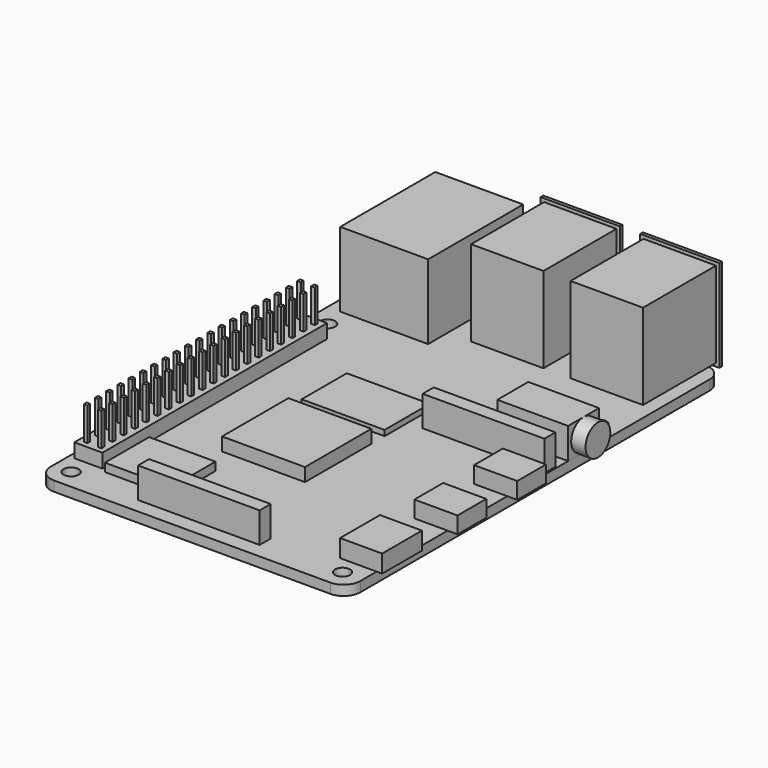
from build123d import *

# Parameters (mm, degrees)
CUBE_W         = 15
CUBE_H         = 15
CUBE_DEPTH     = 2.4
CUBE001_W      = 15
CUBE001_H      = 10.2
CUBE001_DEPTH  = 1
CUBE002_W      = 12
CUBE002_H      = 10
CUBE002_DEPTH  = 1.5
CUBE003_W      = 22
CUBE003_H      = 2.5
CUBE003_DEPTH  = 5.5
CUBE004_W      = 22
CUBE004_H      = 2.5
CUBE004_DEPTH  = 5.5
CUBE048_W      = 0.65
CUBE048_H      = 0.65
CUBE048_DEPTH  = 11.54
CUBE047_W      = 2.54
CUBE047_H      = 2.54
CUBE047_DEPTH  = 2.54
CUBE050_W      = 0.65
CUBE050_H      = 0.65
CUBE050_DEPTH  = 11.54
CUBE049_W      = 2.54
CUBE049_H      = 2.54
CUBE049_DEPTH  = 2.54
CUBE052_W      = 0.65
CUBE052_H      = 0.65
CUBE052_DEPTH  = 11.54
CUBE051_W      = 2.54
CUBE051_H      = 2.54
CUBE051_DEPTH  = 2.54
CUBE054_W      = 0.65
CUBE054_H      = 0.65
CUBE054_DEPTH  = 11.54
CUBE053_W      = 2.54
CUBE053_H      = 2.54
CUBE053_DEPTH  = 2.54
CUBE056_W      = 0.65
CUBE056_H      = 0.65
CUBE056_DEPTH  = 11.54
CUBE055_W      = 2.54
CUBE055_H      = 2.54
CUBE055_DEPTH  = 2.54
CUBE058_W      = 0.65
CUBE058_H      = 0.65
CUBE058_DEPTH  = 11.54
CUBE057_W      = 2.54
CUBE057_H      = 2.54
CUBE057_DEPTH  = 2.54
CUBE060_W      = 0.65
CUBE060_H      = 0.65
CUBE060_DEPTH  = 11.54
CUBE059_W      = 2.54
CUBE059_H      = 2.54
CUBE059_DEPTH  = 2.54
CUBE062_W      = 0.65
CUBE062_H      = 0.65
CUBE062_DEPTH  = 11.54
CUBE061_W      = 2.54
CUBE061_H      = 2.54
CUBE061_DEPTH  = 2.54
CUBE064_W      = 0.65
CUBE064_H      = 0.65
CUBE064_DEPTH  = 11.54
CUBE063_W      = 2.54
CUBE063_H      = 2.54
CUBE063_DEPTH  = 2.54
CUBE066_W      = 0.65
CUBE066_H      = 0.65
CUBE066_DEPTH  = 11.54
CUBE065_W      = 2.54
CUBE065_H      = 2.54
CUBE065_DEPTH  = 2.54
CUBE068_W      = 0.65
CUBE068_H      = 0.65
CUBE068_DEPTH  = 11.54
CUBE067_W      = 2.54
CUBE067_H      = 2.54
CUBE067_DEPTH  = 2.54
CUBE070_W      = 0.65
CUBE070_H      = 0.65
CUBE070_DEPTH  = 11.54
CUBE069_W      = 2.54
CUBE069_H      = 2.54
CUBE069_DEPTH  = 2.54
CUBE072_W      = 0.65
CUBE072_H      = 0.65
CUBE072_DEPTH  = 11.54
CUBE071_W      = 2.54
CUBE071_H      = 2.54
CUBE071_DEPTH  = 2.54
CUBE074_W      = 0.65
CUBE074_H      = 0.65
CUBE074_DEPTH  = 11.54
CUBE073_W      = 2.54
CUBE073_H      = 2.54
CUBE073_DEPTH  = 2.54
CUBE076_W      = 0.65
CUBE076_H      = 0.65
CUBE076_DEPTH  = 11.54
CUBE075_W      = 2.54
CUBE075_H      = 2.54
CUBE075_DEPTH  = 2.54
CUBE078_W      = 0.65
CUBE078_H      = 0.65
CUBE078_DEPTH  = 11.54
CUBE077_W      = 2.54
CUBE077_H      = 2.54
CUBE077_DEPTH  = 2.54
CUBE080_W      = 0.65
CUBE080_H      = 0.65
CUBE080_DEPTH  = 11.54
CUBE079_W      = 2.54
CUBE079_H      = 2.54
CUBE079_DEPTH  = 2.54
CUBE082_W      = 0.65
CUBE082_H      = 0.65
CUBE082_DEPTH  = 11.54
CUBE081_W      = 2.54
CUBE081_H      = 2.54
CUBE081_DEPTH  = 2.54
CUBE084_W      = 0.65
CUBE084_H      = 0.65
CUBE084_DEPTH  = 11.54
CUBE083_W      = 2.54
CUBE083_H      = 2.54
CUBE083_DEPTH  = 2.54
CUBE046_W      = 0.65
CUBE046_H      = 0.65
CUBE046_DEPTH  = 11.54
CUBE045_W      = 2.54
CUBE045_H      = 2.54
CUBE045_DEPTH  = 2.54
CUBE008_W      = 0.65
CUBE008_H      = 0.65
CUBE008_DEPTH  = 11.54
CUBE007_W      = 2.54
CUBE007_H      = 2.54
CUBE007_DEPTH  = 2.54
CUBE010_W      = 0.65
CUBE010_H      = 0.65
CUBE010_DEPTH  = 11.54
CUBE009_W      = 2.54
CUBE009_H      = 2.54
CUBE009_DEPTH  = 2.54
CUBE012_W      = 0.65
CUBE012_H      = 0.65
CUBE012_DEPTH  = 11.54
CUBE011_W      = 2.54
CUBE011_H      = 2.54
CUBE011_DEPTH  = 2.54
CUBE014_W      = 0.65
CUBE014_H      = 0.65
CUBE014_DEPTH  = 11.54
CUBE013_W      = 2.54
CUBE013_H      = 2.54
CUBE013_DEPTH  = 2.54
CUBE016_W      = 0.65
CUBE016_H      = 0.65
CUBE016_DEPTH  = 11.54
CUBE015_W      = 2.54
CUBE015_H      = 2.54
CUBE015_DEPTH  = 2.54
CUBE018_W      = 0.65
CUBE018_H      = 0.65
CUBE018_DEPTH  = 11.54
CUBE017_W      = 2.54
CUBE017_H      = 2.54
CUBE017_DEPTH  = 2.54
CUBE020_W      = 0.65
CUBE020_H      = 0.65
CUBE020_DEPTH  = 11.54
CUBE019_W      = 2.54
CUBE019_H      = 2.54
CUBE019_DEPTH  = 2.54
CUBE022_W      = 0.65
CUBE022_H      = 0.65
CUBE022_DEPTH  = 11.54
CUBE021_W      = 2.54
CUBE021_H      = 2.54
CUBE021_DEPTH  = 2.54
CUBE024_W      = 0.65
CUBE024_H      = 0.65
CUBE024_DEPTH  = 11.54
CUBE023_W      = 2.54
CUBE023_H      = 2.54
CUBE023_DEPTH  = 2.54
CUBE026_W      = 0.65
CUBE026_H      = 0.65
CUBE026_DEPTH  = 11.54
CUBE025_W      = 2.54
CUBE025_H      = 2.54
CUBE025_DEPTH  = 2.54
CUBE028_W      = 0.65
CUBE028_H      = 0.65
CUBE028_DEPTH  = 11.54
CUBE027_W      = 2.54
CUBE027_H      = 2.54
CUBE027_DEPTH  = 2.54
CUBE030_W      = 0.65
CUBE030_H      = 0.65
CUBE030_DEPTH  = 11.54
CUBE029_W      = 2.54
CUBE029_H      = 2.54
CUBE029_DEPTH  = 2.54
CUBE032_W      = 0.65
CUBE032_H      = 0.65
CUBE032_DEPTH  = 11.54
CUBE031_W      = 2.54
CUBE031_H      = 2.54
CUBE031_DEPTH  = 2.54
CUBE034_W      = 0.65
CUBE034_H      = 0.65
CUBE034_DEPTH  = 11.54
CUBE033_W      = 2.54
CUBE033_H      = 2.54
CUBE033_DEPTH  = 2.54
CUBE036_W      = 0.65
CUBE036_H      = 0.65
CUBE036_DEPTH  = 11.54
CUBE035_W      = 2.54
CUBE035_H      = 2.54
CUBE035_DEPTH  = 2.54
CUBE038_W      = 0.65
CUBE038_H      = 0.65
CUBE038_DEPTH  = 11.54
CUBE037_W      = 2.54
CUBE037_H      = 2.54
CUBE037_DEPTH  = 2.54
CUBE040_W      = 0.65
CUBE040_H      = 0.65
CUBE040_DEPTH  = 11.54
CUBE039_W      = 2.54
CUBE039_H      = 2.54
CUBE039_DEPTH  = 2.54
CUBE042_W      = 0.65
CUBE042_H      = 0.65
CUBE042_DEPTH  = 11.54
CUBE041_W      = 2.54
CUBE041_H      = 2.54
CUBE041_DEPTH  = 2.54
CUBE044_W      = 0.65
CUBE044_H      = 0.65
CUBE044_DEPTH  = 11.54
CUBE043_W      = 2.54
CUBE043_H      = 2.54
CUBE043_DEPTH  = 2.54
CUBE006_W      = 0.65
CUBE006_H      = 0.65
CUBE006_DEPTH  = 11.54
CUBE005_W      = 2.54
CUBE005_H      = 2.54
CUBE005_DEPTH  = 2.54
CUBE085_W      = 15.9
CUBE085_H      = 21.5
CUBE085_DEPTH  = 13.5
CUBE087_W      = 14.3
CUBE087_H      = 0.6
CUBE087_DEPTH  = 16.7
CUBE086_W      = 13.1
CUBE086_H      = 17.1
CUBE086_DEPTH  = 15.5
CUBE089_W      = 14.3
CUBE089_H      = 0.6
CUBE089_DEPTH  = 16.7
CUBE088_W      = 13.1
CUBE088_H      = 17.1
CUBE088_DEPTH  = 15.5
CUBE090_W      = 7.8
CUBE090_H      = 6.5
CUBE090_DEPTH  = 3
CUBE091_W      = 7.8
CUBE091_H      = 6.5
CUBE091_DEPTH  = 3
CYLINDER_R     = 2.8
CYLINDER_DEPTH = 2.6
CUBE092_W      = 12.8
CUBE092_H      = 7
CUBE092_DEPTH  = 5.6
CUBE093_W      = 7.6
CUBE093_H      = 9
CUBE093_DEPTH  = 3.2
SKETCH_R       = 1.375
PAD_DEPTH      = 1.8


with BuildPart() as cube:
    # cube → cube (new body)
    with BuildSketch(Plane(origin=(16, 21.75, 0), x_dir=(1, 0, 0), z_dir=(0, 0, 1))):
        with Locations((7.5, 7.5)):
            Rectangle(CUBE_W, CUBE_H)
    extrude(amount=CUBE_DEPTH)


with BuildPart() as cube001:
    # cube001 → cube001 (new body)
    with BuildSketch(Plane(origin=(16, 39.75, 0), x_dir=(1, 0, 0), z_dir=(0, 0, 1))):
        with Locations((7.5, 5.1)):
            Rectangle(CUBE001_W, CUBE001_H)
    extrude(amount=CUBE001_DEPTH)


with BuildPart() as cube002:
    # cube002 → cube002 (new body)
    with BuildSketch(Plane(origin=(7, 6.5, 0), x_dir=(1, 0, 0), z_dir=(0, 0, 1))):
        with Locations((6, 5)):
            Rectangle(CUBE002_W, CUBE002_H)
    extrude(amount=CUBE002_DEPTH)


with BuildPart() as cube003:
    # cube003 → cube003 (new body)
    with BuildSketch(Plane(origin=(16, 2.75, 0), x_dir=(1, 0, 0), z_dir=(0, 0, 1))):
        with Locations((11, 1.25)):
            Rectangle(CUBE003_W, CUBE003_H)
    extrude(amount=CUBE003_DEPTH)


with BuildPart() as cube004:
    # cube004 → cube004 (new body)
    with BuildSketch(Plane(origin=(33.7, 45, 0), x_dir=(1, 0, 0), z_dir=(0, 0, 1))):
        with Locations((11, 1.25)):
            Rectangle(CUBE004_W, CUBE004_H)
    extrude(amount=CUBE004_DEPTH)


with BuildPart() as cube048:
    # cube048 → cube048 (new body)
    with BuildSketch(Plane(origin=(0.945, 0.945, -3), x_dir=(1, 0, 0), z_dir=(0, 0, 1))):
        with Locations((0.325, 0.325)):
            Rectangle(CUBE048_W, CUBE048_H)
    extrude(amount=CUBE048_DEPTH)


with BuildPart() as union021:
    # cube047 → cube047 (new body)
    with BuildSketch(Plane.XY):
        with Locations((1.27, 1.27)):
            Rectangle(CUBE047_W, CUBE047_H)
    extrude(amount=CUBE047_DEPTH)

    # union021: union cube048
    add(cube048.part)


with BuildPart() as union021_1:
    # union021 placement: moved
    add(union021.part.moved(Location((2.54, 2.54, 0))))


with BuildPart() as cube050:
    # cube050 → cube050 (new body)
    with BuildSketch(Plane(origin=(0.945, 0.945, -3), x_dir=(1, 0, 0), z_dir=(0, 0, 1))):
        with Locations((0.325, 0.325)):
            Rectangle(CUBE050_W, CUBE050_H)
    extrude(amount=CUBE050_DEPTH)


with BuildPart() as union022:
    # cube049 → cube049 (new body)
    with BuildSketch(Plane.XY):
        with Locations((1.27, 1.27)):
            Rectangle(CUBE049_W, CUBE049_H)
    extrude(amount=CUBE049_DEPTH)

    # union022: union cube050
    add(cube050.part)


with BuildPart() as union022_1:
    # union022 placement: moved
    add(union022.part.moved(Location((2.54, 5.08, 0))))


with BuildPart() as cube052:
    # cube052 → cube052 (new body)
    with BuildSketch(Plane(origin=(0.945, 0.945, -3), x_dir=(1, 0, 0), z_dir=(0, 0, 1))):
        with Locations((0.325, 0.325)):
            Rectangle(CUBE052_W, CUBE052_H)
    extrude(amount=CUBE052_DEPTH)


with BuildPart() as union023:
    # cube051 → cube051 (new body)
    with BuildSketch(Plane.XY):
        with Locations((1.27, 1.27)):
            Rectangle(CUBE051_W, CUBE051_H)
    extrude(amount=CUBE051_DEPTH)

    # union023: union cube052
    add(cube052.part)


with BuildPart() as union023_1:
    # union023 placement: moved
    add(union023.part.moved(Location((2.54, 7.62, 0))))


with BuildPart() as cube054:
    # cube054 → cube054 (new body)
    with BuildSketch(Plane(origin=(0.945, 0.945, -3), x_dir=(1, 0, 0), z_dir=(0, 0, 1))):
        with Locations((0.325, 0.325)):
            Rectangle(CUBE054_W, CUBE054_H)
    extrude(amount=CUBE054_DEPTH)


with BuildPart() as union024:
    # cube053 → cube053 (new body)
    with BuildSketch(Plane.XY):
        with Locations((1.27, 1.27)):
            Rectangle(CUBE053_W, CUBE053_H)
    extrude(amount=CUBE053_DEPTH)

    # union024: union cube054
    add(cube054.part)


with BuildPart() as union024_1:
    # union024 placement: moved
    add(union024.part.moved(Location((2.54, 10.16, 0))))


with BuildPart() as cube056:
    # cube056 → cube056 (new body)
    with BuildSketch(Plane(origin=(0.945, 0.945, -3), x_dir=(1, 0, 0), z_dir=(0, 0, 1))):
        with Locations((0.325, 0.325)):
            Rectangle(CUBE056_W, CUBE056_H)
    extrude(amount=CUBE056_DEPTH)


with BuildPart() as union025:
    # cube055 → cube055 (new body)
    with BuildSketch(Plane.XY):
        with Locations((1.27, 1.27)):
            Rectangle(CUBE055_W, CUBE055_H)
    extrude(amount=CUBE055_DEPTH)

    # union025: union cube056
    add(cube056.part)


with BuildPart() as union025_1:
    # union025 placement: moved
    add(union025.part.moved(Location((2.54, 12.7, 0))))


with BuildPart() as cube058:
    # cube058 → cube058 (new body)
    with BuildSketch(Plane(origin=(0.945, 0.945, -3), x_dir=(1, 0, 0), z_dir=(0, 0, 1))):
        with Locations((0.325, 0.325)):
            Rectangle(CUBE058_W, CUBE058_H)
    extrude(amount=CUBE058_DEPTH)


with BuildPart() as union026:
    # cube057 → cube057 (new body)
    with BuildSketch(Plane.XY):
        with Locations((1.27, 1.27)):
            Rectangle(CUBE057_W, CUBE057_H)
    extrude(amount=CUBE057_DEPTH)

    # union026: union cube058
    add(cube058.part)


with BuildPart() as union026_1:
    # union026 placement: moved
    add(union026.part.moved(Location((2.54, 15.24, 0))))


with BuildPart() as cube060:
    # cube060 → cube060 (new body)
    with BuildSketch(Plane(origin=(0.945, 0.945, -3), x_dir=(1, 0, 0), z_dir=(0, 0, 1))):
        with Locations((0.325, 0.325)):
            Rectangle(CUBE060_W, CUBE060_H)
    extrude(amount=CUBE060_DEPTH)


with BuildPart() as union027:
    # cube059 → cube059 (new body)
    with BuildSketch(Plane.XY):
        with Locations((1.27, 1.27)):
            Rectangle(CUBE059_W, CUBE059_H)
    extrude(amount=CUBE059_DEPTH)

    # union027: union cube060
    add(cube060.part)


with BuildPart() as union027_1:
    # union027 placement: moved
    add(union027.part.moved(Location((2.54, 17.78, 0))))


with BuildPart() as cube062:
    # cube062 → cube062 (new body)
    with BuildSketch(Plane(origin=(0.945, 0.945, -3), x_dir=(1, 0, 0), z_dir=(0, 0, 1))):
        with Locations((0.325, 0.325)):
            Rectangle(CUBE062_W, CUBE062_H)
    extrude(amount=CUBE062_DEPTH)


with BuildPart() as union028:
    # cube061 → cube061 (new body)
    with BuildSketch(Plane.XY):
        with Locations((1.27, 1.27)):
            Rectangle(CUBE061_W, CUBE061_H)
    extrude(amount=CUBE061_DEPTH)

    # union028: union cube062
    add(cube062.part)


with BuildPart() as union028_1:
    # union028 placement: moved
    add(union028.part.moved(Location((2.54, 20.32, 0))))


with BuildPart() as cube064:
    # cube064 → cube064 (new body)
    with BuildSketch(Plane(origin=(0.945, 0.945, -3), x_dir=(1, 0, 0), z_dir=(0, 0, 1))):
        with Locations((0.325, 0.325)):
            Rectangle(CUBE064_W, CUBE064_H)
    extrude(amount=CUBE064_DEPTH)


with BuildPart() as union029:
    # cube063 → cube063 (new body)
    with BuildSketch(Plane.XY):
        with Locations((1.27, 1.27)):
            Rectangle(CUBE063_W, CUBE063_H)
    extrude(amount=CUBE063_DEPTH)

    # union029: union cube064
    add(cube064.part)


with BuildPart() as union029_1:
    # union029 placement: moved
    add(union029.part.moved(Location((2.54, 22.86, 0))))


with BuildPart() as cube066:
    # cube066 → cube066 (new body)
    with BuildSketch(Plane(origin=(0.945, 0.945, -3), x_dir=(1, 0, 0), z_dir=(0, 0, 1))):
        with Locations((0.325, 0.325)):
            Rectangle(CUBE066_W, CUBE066_H)
    extrude(amount=CUBE066_DEPTH)


with BuildPart() as union030:
    # cube065 → cube065 (new body)
    with BuildSketch(Plane.XY):
        with Locations((1.27, 1.27)):
            Rectangle(CUBE065_W, CUBE065_H)
    extrude(amount=CUBE065_DEPTH)

    # union030: union cube066
    add(cube066.part)


with BuildPart() as union030_1:
    # union030 placement: moved
    add(union030.part.moved(Location((2.54, 25.4, 0))))


with BuildPart() as cube068:
    # cube068 → cube068 (new body)
    with BuildSketch(Plane(origin=(0.945, 0.945, -3), x_dir=(1, 0, 0), z_dir=(0, 0, 1))):
        with Locations((0.325, 0.325)):
            Rectangle(CUBE068_W, CUBE068_H)
    extrude(amount=CUBE068_DEPTH)


with BuildPart() as union031:
    # cube067 → cube067 (new body)
    with BuildSketch(Plane.XY):
        with Locations((1.27, 1.27)):
            Rectangle(CUBE067_W, CUBE067_H)
    extrude(amount=CUBE067_DEPTH)

    # union031: union cube068
    add(cube068.part)


with BuildPart() as union031_1:
    # union031 placement: moved
    add(union031.part.moved(Location((2.54, 27.94, 0))))


with BuildPart() as cube070:
    # cube070 → cube070 (new body)
    with BuildSketch(Plane(origin=(0.945, 0.945, -3), x_dir=(1, 0, 0), z_dir=(0, 0, 1))):
        with Locations((0.325, 0.325)):
            Rectangle(CUBE070_W, CUBE070_H)
    extrude(amount=CUBE070_DEPTH)


with BuildPart() as union032:
    # cube069 → cube069 (new body)
    with BuildSketch(Plane.XY):
        with Locations((1.27, 1.27)):
            Rectangle(CUBE069_W, CUBE069_H)
    extrude(amount=CUBE069_DEPTH)

    # union032: union cube070
    add(cube070.part)


with BuildPart() as union032_1:
    # union032 placement: moved
    add(union032.part.moved(Location((2.54, 30.48, 0))))


with BuildPart() as cube072:
    # cube072 → cube072 (new body)
    with BuildSketch(Plane(origin=(0.945, 0.945, -3), x_dir=(1, 0, 0), z_dir=(0, 0, 1))):
        with Locations((0.325, 0.325)):
            Rectangle(CUBE072_W, CUBE072_H)
    extrude(amount=CUBE072_DEPTH)


with BuildPart() as union033:
    # cube071 → cube071 (new body)
    with BuildSketch(Plane.XY):
        with Locations((1.27, 1.27)):
            Rectangle(CUBE071_W, CUBE071_H)
    extrude(amount=CUBE071_DEPTH)

    # union033: union cube072
    add(cube072.part)


with BuildPart() as union033_1:
    # union033 placement: moved
    add(union033.part.moved(Location((2.54, 33.02, 0))))


with BuildPart() as cube074:
    # cube074 → cube074 (new body)
    with BuildSketch(Plane(origin=(0.945, 0.945, -3), x_dir=(1, 0, 0), z_dir=(0, 0, 1))):
        with Locations((0.325, 0.325)):
            Rectangle(CUBE074_W, CUBE074_H)
    extrude(amount=CUBE074_DEPTH)


with BuildPart() as union034:
    # cube073 → cube073 (new body)
    with BuildSketch(Plane.XY):
        with Locations((1.27, 1.27)):
            Rectangle(CUBE073_W, CUBE073_H)
    extrude(amount=CUBE073_DEPTH)

    # union034: union cube074
    add(cube074.part)


with BuildPart() as union034_1:
    # union034 placement: moved
    add(union034.part.moved(Location((2.54, 35.56, 0))))


with BuildPart() as cube076:
    # cube076 → cube076 (new body)
    with BuildSketch(Plane(origin=(0.945, 0.945, -3), x_dir=(1, 0, 0), z_dir=(0, 0, 1))):
        with Locations((0.325, 0.325)):
            Rectangle(CUBE076_W, CUBE076_H)
    extrude(amount=CUBE076_DEPTH)


with BuildPart() as union035:
    # cube075 → cube075 (new body)
    with BuildSketch(Plane.XY):
        with Locations((1.27, 1.27)):
            Rectangle(CUBE075_W, CUBE075_H)
    extrude(amount=CUBE075_DEPTH)

    # union035: union cube076
    add(cube076.part)


with BuildPart() as union035_1:
    # union035 placement: moved
    add(union035.part.moved(Location((2.54, 38.1, 0))))


with BuildPart() as cube078:
    # cube078 → cube078 (new body)
    with BuildSketch(Plane(origin=(0.945, 0.945, -3), x_dir=(1, 0, 0), z_dir=(0, 0, 1))):
        with Locations((0.325, 0.325)):
            Rectangle(CUBE078_W, CUBE078_H)
    extrude(amount=CUBE078_DEPTH)


with BuildPart() as union036:
    # cube077 → cube077 (new body)
    with BuildSketch(Plane.XY):
        with Locations((1.27, 1.27)):
            Rectangle(CUBE077_W, CUBE077_H)
    extrude(amount=CUBE077_DEPTH)

    # union036: union cube078
    add(cube078.part)


with BuildPart() as union036_1:
    # union036 placement: moved
    add(union036.part.moved(Location((2.54, 40.64, 0))))


with BuildPart() as cube080:
    # cube080 → cube080 (new body)
    with BuildSketch(Plane(origin=(0.945, 0.945, -3), x_dir=(1, 0, 0), z_dir=(0, 0, 1))):
        with Locations((0.325, 0.325)):
            Rectangle(CUBE080_W, CUBE080_H)
    extrude(amount=CUBE080_DEPTH)


with BuildPart() as union037:
    # cube079 → cube079 (new body)
    with BuildSketch(Plane.XY):
        with Locations((1.27, 1.27)):
            Rectangle(CUBE079_W, CUBE079_H)
    extrude(amount=CUBE079_DEPTH)

    # union037: union cube080
    add(cube080.part)


with BuildPart() as union037_1:
    # union037 placement: moved
    add(union037.part.moved(Location((2.54, 43.18, 0))))


with BuildPart() as cube082:
    # cube082 → cube082 (new body)
    with BuildSketch(Plane(origin=(0.945, 0.945, -3), x_dir=(1, 0, 0), z_dir=(0, 0, 1))):
        with Locations((0.325, 0.325)):
            Rectangle(CUBE082_W, CUBE082_H)
    extrude(amount=CUBE082_DEPTH)


with BuildPart() as union038:
    # cube081 → cube081 (new body)
    with BuildSketch(Plane.XY):
        with Locations((1.27, 1.27)):
            Rectangle(CUBE081_W, CUBE081_H)
    extrude(amount=CUBE081_DEPTH)

    # union038: union cube082
    add(cube082.part)


with BuildPart() as union038_1:
    # union038 placement: moved
    add(union038.part.moved(Location((2.54, 45.72, 0))))


with BuildPart() as cube084:
    # cube084 → cube084 (new body)
    with BuildSketch(Plane(origin=(0.945, 0.945, -3), x_dir=(1, 0, 0), z_dir=(0, 0, 1))):
        with Locations((0.325, 0.325)):
            Rectangle(CUBE084_W, CUBE084_H)
    extrude(amount=CUBE084_DEPTH)


with BuildPart() as union039:
    # cube083 → cube083 (new body)
    with BuildSketch(Plane.XY):
        with Locations((1.27, 1.27)):
            Rectangle(CUBE083_W, CUBE083_H)
    extrude(amount=CUBE083_DEPTH)

    # union039: union cube084
    add(cube084.part)


with BuildPart() as union039_1:
    # union039 placement: moved
    add(union039.part.moved(Location((2.54, 48.26, 0))))


with BuildPart() as cube046:
    # cube046 → cube046 (new body)
    with BuildSketch(Plane(origin=(0.945, 0.945, -3), x_dir=(1, 0, 0), z_dir=(0, 0, 1))):
        with Locations((0.325, 0.325)):
            Rectangle(CUBE046_W, CUBE046_H)
    extrude(amount=CUBE046_DEPTH)


with BuildPart() as group001:
    # cube045 → cube045 (new body)
    with BuildSketch(Plane.XY):
        with Locations((1.27, 1.27)):
            Rectangle(CUBE045_W, CUBE045_H)
    extrude(amount=CUBE045_DEPTH)

    # union020: union cube046
    add(cube046.part)


with BuildPart() as group001_1:
    # union020 placement: moved
    add(group001.part.moved(Location((2.54, 0, 0))))

    # Group001: union union021, union022, union023, union024, union025, union026, union027, union028, union029, union030, union031, union032, union033, union034, union035, union036, union037, union038, union039
    add(union021_1.part)
    add(union022_1.part)
    add(union023_1.part)
    add(union024_1.part)
    add(union025_1.part)
    add(union026_1.part)
    add(union027_1.part)
    add(union028_1.part)
    add(union029_1.part)
    add(union030_1.part)
    add(union031_1.part)
    add(union032_1.part)
    add(union033_1.part)
    add(union034_1.part)
    add(union035_1.part)
    add(union036_1.part)
    add(union037_1.part)
    add(union038_1.part)
    add(union039_1.part)


with BuildPart() as cube008:
    # cube008 → cube008 (new body)
    with BuildSketch(Plane(origin=(0.945, 0.945, -3), x_dir=(1, 0, 0), z_dir=(0, 0, 1))):
        with Locations((0.325, 0.325)):
            Rectangle(CUBE008_W, CUBE008_H)
    extrude(amount=CUBE008_DEPTH)


with BuildPart() as union001:
    # cube007 → cube007 (new body)
    with BuildSketch(Plane.XY):
        with Locations((1.27, 1.27)):
            Rectangle(CUBE007_W, CUBE007_H)
    extrude(amount=CUBE007_DEPTH)

    # union001: union cube008
    add(cube008.part)


with BuildPart() as union001_1:
    # union001 placement: moved
    add(union001.part.moved(Location((0, 2.54, 0))))


with BuildPart() as cube010:
    # cube010 → cube010 (new body)
    with BuildSketch(Plane(origin=(0.945, 0.945, -3), x_dir=(1, 0, 0), z_dir=(0, 0, 1))):
        with Locations((0.325, 0.325)):
            Rectangle(CUBE010_W, CUBE010_H)
    extrude(amount=CUBE010_DEPTH)


with BuildPart() as union002:
    # cube009 → cube009 (new body)
    with BuildSketch(Plane.XY):
        with Locations((1.27, 1.27)):
            Rectangle(CUBE009_W, CUBE009_H)
    extrude(amount=CUBE009_DEPTH)

    # union002: union cube010
    add(cube010.part)


with BuildPart() as union002_1:
    # union002 placement: moved
    add(union002.part.moved(Location((0, 5.08, 0))))


with BuildPart() as cube012:
    # cube012 → cube012 (new body)
    with BuildSketch(Plane(origin=(0.945, 0.945, -3), x_dir=(1, 0, 0), z_dir=(0, 0, 1))):
        with Locations((0.325, 0.325)):
            Rectangle(CUBE012_W, CUBE012_H)
    extrude(amount=CUBE012_DEPTH)


with BuildPart() as union003:
    # cube011 → cube011 (new body)
    with BuildSketch(Plane.XY):
        with Locations((1.27, 1.27)):
            Rectangle(CUBE011_W, CUBE011_H)
    extrude(amount=CUBE011_DEPTH)

    # union003: union cube012
    add(cube012.part)


with BuildPart() as union003_1:
    # union003 placement: moved
    add(union003.part.moved(Location((0, 7.62, 0))))


with BuildPart() as cube014:
    # cube014 → cube014 (new body)
    with BuildSketch(Plane(origin=(0.945, 0.945, -3), x_dir=(1, 0, 0), z_dir=(0, 0, 1))):
        with Locations((0.325, 0.325)):
            Rectangle(CUBE014_W, CUBE014_H)
    extrude(amount=CUBE014_DEPTH)


with BuildPart() as union004:
    # cube013 → cube013 (new body)
    with BuildSketch(Plane.XY):
        with Locations((1.27, 1.27)):
            Rectangle(CUBE013_W, CUBE013_H)
    extrude(amount=CUBE013_DEPTH)

    # union004: union cube014
    add(cube014.part)


with BuildPart() as union004_1:
    # union004 placement: moved
    add(union004.part.moved(Location((0, 10.16, 0))))


with BuildPart() as cube016:
    # cube016 → cube016 (new body)
    with BuildSketch(Plane(origin=(0.945, 0.945, -3), x_dir=(1, 0, 0), z_dir=(0, 0, 1))):
        with Locations((0.325, 0.325)):
            Rectangle(CUBE016_W, CUBE016_H)
    extrude(amount=CUBE016_DEPTH)


with BuildPart() as union005:
    # cube015 → cube015 (new body)
    with BuildSketch(Plane.XY):
        with Locations((1.27, 1.27)):
            Rectangle(CUBE015_W, CUBE015_H)
    extrude(amount=CUBE015_DEPTH)

    # union005: union cube016
    add(cube016.part)


with BuildPart() as union005_1:
    # union005 placement: moved
    add(union005.part.moved(Location((0, 12.7, 0))))


with BuildPart() as cube018:
    # cube018 → cube018 (new body)
    with BuildSketch(Plane(origin=(0.945, 0.945, -3), x_dir=(1, 0, 0), z_dir=(0, 0, 1))):
        with Locations((0.325, 0.325)):
            Rectangle(CUBE018_W, CUBE018_H)
    extrude(amount=CUBE018_DEPTH)


with BuildPart() as union006:
    # cube017 → cube017 (new body)
    with BuildSketch(Plane.XY):
        with Locations((1.27, 1.27)):
            Rectangle(CUBE017_W, CUBE017_H)
    extrude(amount=CUBE017_DEPTH)

    # union006: union cube018
    add(cube018.part)


with BuildPart() as union006_1:
    # union006 placement: moved
    add(union006.part.moved(Location((0, 15.24, 0))))


with BuildPart() as cube020:
    # cube020 → cube020 (new body)
    with BuildSketch(Plane(origin=(0.945, 0.945, -3), x_dir=(1, 0, 0), z_dir=(0, 0, 1))):
        with Locations((0.325, 0.325)):
            Rectangle(CUBE020_W, CUBE020_H)
    extrude(amount=CUBE020_DEPTH)


with BuildPart() as union007:
    # cube019 → cube019 (new body)
    with BuildSketch(Plane.XY):
        with Locations((1.27, 1.27)):
            Rectangle(CUBE019_W, CUBE019_H)
    extrude(amount=CUBE019_DEPTH)

    # union007: union cube020
    add(cube020.part)


with BuildPart() as union007_1:
    # union007 placement: moved
    add(union007.part.moved(Location((0, 17.78, 0))))


with BuildPart() as cube022:
    # cube022 → cube022 (new body)
    with BuildSketch(Plane(origin=(0.945, 0.945, -3), x_dir=(1, 0, 0), z_dir=(0, 0, 1))):
        with Locations((0.325, 0.325)):
            Rectangle(CUBE022_W, CUBE022_H)
    extrude(amount=CUBE022_DEPTH)


with BuildPart() as union008:
    # cube021 → cube021 (new body)
    with BuildSketch(Plane.XY):
        with Locations((1.27, 1.27)):
            Rectangle(CUBE021_W, CUBE021_H)
    extrude(amount=CUBE021_DEPTH)

    # union008: union cube022
    add(cube022.part)


with BuildPart() as union008_1:
    # union008 placement: moved
    add(union008.part.moved(Location((0, 20.32, 0))))


with BuildPart() as cube024:
    # cube024 → cube024 (new body)
    with BuildSketch(Plane(origin=(0.945, 0.945, -3), x_dir=(1, 0, 0), z_dir=(0, 0, 1))):
        with Locations((0.325, 0.325)):
            Rectangle(CUBE024_W, CUBE024_H)
    extrude(amount=CUBE024_DEPTH)


with BuildPart() as union009:
    # cube023 → cube023 (new body)
    with BuildSketch(Plane.XY):
        with Locations((1.27, 1.27)):
            Rectangle(CUBE023_W, CUBE023_H)
    extrude(amount=CUBE023_DEPTH)

    # union009: union cube024
    add(cube024.part)


with BuildPart() as union009_1:
    # union009 placement: moved
    add(union009.part.moved(Location((0, 22.86, 0))))


with BuildPart() as cube026:
    # cube026 → cube026 (new body)
    with BuildSketch(Plane(origin=(0.945, 0.945, -3), x_dir=(1, 0, 0), z_dir=(0, 0, 1))):
        with Locations((0.325, 0.325)):
            Rectangle(CUBE026_W, CUBE026_H)
    extrude(amount=CUBE026_DEPTH)


with BuildPart() as union010:
    # cube025 → cube025 (new body)
    with BuildSketch(Plane.XY):
        with Locations((1.27, 1.27)):
            Rectangle(CUBE025_W, CUBE025_H)
    extrude(amount=CUBE025_DEPTH)

    # union010: union cube026
    add(cube026.part)


with BuildPart() as union010_1:
    # union010 placement: moved
    add(union010.part.moved(Location((0, 25.4, 0))))


with BuildPart() as cube028:
    # cube028 → cube028 (new body)
    with BuildSketch(Plane(origin=(0.945, 0.945, -3), x_dir=(1, 0, 0), z_dir=(0, 0, 1))):
        with Locations((0.325, 0.325)):
            Rectangle(CUBE028_W, CUBE028_H)
    extrude(amount=CUBE028_DEPTH)


with BuildPart() as union011:
    # cube027 → cube027 (new body)
    with BuildSketch(Plane.XY):
        with Locations((1.27, 1.27)):
            Rectangle(CUBE027_W, CUBE027_H)
    extrude(amount=CUBE027_DEPTH)

    # union011: union cube028
    add(cube028.part)


with BuildPart() as union011_1:
    # union011 placement: moved
    add(union011.part.moved(Location((0, 27.94, 0))))


with BuildPart() as cube030:
    # cube030 → cube030 (new body)
    with BuildSketch(Plane(origin=(0.945, 0.945, -3), x_dir=(1, 0, 0), z_dir=(0, 0, 1))):
        with Locations((0.325, 0.325)):
            Rectangle(CUBE030_W, CUBE030_H)
    extrude(amount=CUBE030_DEPTH)


with BuildPart() as union012:
    # cube029 → cube029 (new body)
    with BuildSketch(Plane.XY):
        with Locations((1.27, 1.27)):
            Rectangle(CUBE029_W, CUBE029_H)
    extrude(amount=CUBE029_DEPTH)

    # union012: union cube030
    add(cube030.part)


with BuildPart() as union012_1:
    # union012 placement: moved
    add(union012.part.moved(Location((0, 30.48, 0))))


with BuildPart() as cube032:
    # cube032 → cube032 (new body)
    with BuildSketch(Plane(origin=(0.945, 0.945, -3), x_dir=(1, 0, 0), z_dir=(0, 0, 1))):
        with Locations((0.325, 0.325)):
            Rectangle(CUBE032_W, CUBE032_H)
    extrude(amount=CUBE032_DEPTH)


with BuildPart() as union013:
    # cube031 → cube031 (new body)
    with BuildSketch(Plane.XY):
        with Locations((1.27, 1.27)):
            Rectangle(CUBE031_W, CUBE031_H)
    extrude(amount=CUBE031_DEPTH)

    # union013: union cube032
    add(cube032.part)


with BuildPart() as union013_1:
    # union013 placement: moved
    add(union013.part.moved(Location((0, 33.02, 0))))


with BuildPart() as cube034:
    # cube034 → cube034 (new body)
    with BuildSketch(Plane(origin=(0.945, 0.945, -3), x_dir=(1, 0, 0), z_dir=(0, 0, 1))):
        with Locations((0.325, 0.325)):
            Rectangle(CUBE034_W, CUBE034_H)
    extrude(amount=CUBE034_DEPTH)


with BuildPart() as union014:
    # cube033 → cube033 (new body)
    with BuildSketch(Plane.XY):
        with Locations((1.27, 1.27)):
            Rectangle(CUBE033_W, CUBE033_H)
    extrude(amount=CUBE033_DEPTH)

    # union014: union cube034
    add(cube034.part)


with BuildPart() as union014_1:
    # union014 placement: moved
    add(union014.part.moved(Location((0, 35.56, 0))))


with BuildPart() as cube036:
    # cube036 → cube036 (new body)
    with BuildSketch(Plane(origin=(0.945, 0.945, -3), x_dir=(1, 0, 0), z_dir=(0, 0, 1))):
        with Locations((0.325, 0.325)):
            Rectangle(CUBE036_W, CUBE036_H)
    extrude(amount=CUBE036_DEPTH)


with BuildPart() as union015:
    # cube035 → cube035 (new body)
    with BuildSketch(Plane.XY):
        with Locations((1.27, 1.27)):
            Rectangle(CUBE035_W, CUBE035_H)
    extrude(amount=CUBE035_DEPTH)

    # union015: union cube036
    add(cube036.part)


with BuildPart() as union015_1:
    # union015 placement: moved
    add(union015.part.moved(Location((0, 38.1, 0))))


with BuildPart() as cube038:
    # cube038 → cube038 (new body)
    with BuildSketch(Plane(origin=(0.945, 0.945, -3), x_dir=(1, 0, 0), z_dir=(0, 0, 1))):
        with Locations((0.325, 0.325)):
            Rectangle(CUBE038_W, CUBE038_H)
    extrude(amount=CUBE038_DEPTH)


with BuildPart() as union016:
    # cube037 → cube037 (new body)
    with BuildSketch(Plane.XY):
        with Locations((1.27, 1.27)):
            Rectangle(CUBE037_W, CUBE037_H)
    extrude(amount=CUBE037_DEPTH)

    # union016: union cube038
    add(cube038.part)


with BuildPart() as union016_1:
    # union016 placement: moved
    add(union016.part.moved(Location((0, 40.64, 0))))


with BuildPart() as cube040:
    # cube040 → cube040 (new body)
    with BuildSketch(Plane(origin=(0.945, 0.945, -3), x_dir=(1, 0, 0), z_dir=(0, 0, 1))):
        with Locations((0.325, 0.325)):
            Rectangle(CUBE040_W, CUBE040_H)
    extrude(amount=CUBE040_DEPTH)


with BuildPart() as union017:
    # cube039 → cube039 (new body)
    with BuildSketch(Plane.XY):
        with Locations((1.27, 1.27)):
            Rectangle(CUBE039_W, CUBE039_H)
    extrude(amount=CUBE039_DEPTH)

    # union017: union cube040
    add(cube040.part)


with BuildPart() as union017_1:
    # union017 placement: moved
    add(union017.part.moved(Location((0, 43.18, 0))))


with BuildPart() as cube042:
    # cube042 → cube042 (new body)
    with BuildSketch(Plane(origin=(0.945, 0.945, -3), x_dir=(1, 0, 0), z_dir=(0, 0, 1))):
        with Locations((0.325, 0.325)):
            Rectangle(CUBE042_W, CUBE042_H)
    extrude(amount=CUBE042_DEPTH)


with BuildPart() as union018:
    # cube041 → cube041 (new body)
    with BuildSketch(Plane.XY):
        with Locations((1.27, 1.27)):
            Rectangle(CUBE041_W, CUBE041_H)
    extrude(amount=CUBE041_DEPTH)

    # union018: union cube042
    add(cube042.part)


with BuildPart() as union018_1:
    # union018 placement: moved
    add(union018.part.moved(Location((0, 45.72, 0))))


with BuildPart() as cube044:
    # cube044 → cube044 (new body)
    with BuildSketch(Plane(origin=(0.945, 0.945, -3), x_dir=(1, 0, 0), z_dir=(0, 0, 1))):
        with Locations((0.325, 0.325)):
            Rectangle(CUBE044_W, CUBE044_H)
    extrude(amount=CUBE044_DEPTH)


with BuildPart() as union019:
    # cube043 → cube043 (new body)
    with BuildSketch(Plane.XY):
        with Locations((1.27, 1.27)):
            Rectangle(CUBE043_W, CUBE043_H)
    extrude(amount=CUBE043_DEPTH)

    # union019: union cube044
    add(cube044.part)


with BuildPart() as union019_1:
    # union019 placement: moved
    add(union019.part.moved(Location((0, 48.26, 0))))


with BuildPart() as cube006:
    # cube006 → cube006 (new body)
    with BuildSketch(Plane(origin=(0.945, 0.945, -3), x_dir=(1, 0, 0), z_dir=(0, 0, 1))):
        with Locations((0.325, 0.325)):
            Rectangle(CUBE006_W, CUBE006_H)
    extrude(amount=CUBE006_DEPTH)


with BuildPart() as group002:
    # cube005 → cube005 (new body)
    with BuildSketch(Plane.XY):
        with Locations((1.27, 1.27)):
            Rectangle(CUBE005_W, CUBE005_H)
    extrude(amount=CUBE005_DEPTH)

    # union: union cube006
    add(cube006.part)

    # Group: union union001, union002, union003, union004, union005, union006, union007, union008, union009, union010, union011, union012, union013, union014, union015, union016, union017, union018, union019
    add(union001_1.part)
    add(union002_1.part)
    add(union003_1.part)
    add(union004_1.part)
    add(union005_1.part)
    add(union006_1.part)
    add(union007_1.part)
    add(union008_1.part)
    add(union009_1.part)
    add(union010_1.part)
    add(union011_1.part)
    add(union012_1.part)
    add(union013_1.part)
    add(union014_1.part)
    add(union015_1.part)
    add(union016_1.part)
    add(union017_1.part)
    add(union018_1.part)
    add(union019_1.part)

    # Group002: union Group001
    add(group001_1.part)


with BuildPart() as group002_1:
    # Group002 placement: moved
    add(group002.part.moved(Location((1, 7.1, 0))))


with BuildPart() as cube085:
    # cube085 → cube085 (new body)
    with BuildSketch(Plane(origin=(2.3, 65.6, 0), x_dir=(1, 0, 0), z_dir=(0, 0, 1))):
        with Locations((7.95, 10.75)):
            Rectangle(CUBE085_W, CUBE085_H)
    extrude(amount=CUBE085_DEPTH)


with BuildPart() as cube087:
    # cube087 → cube087 (new body)
    with BuildSketch(Plane(origin=(-0.6, 16.5, -0.6), x_dir=(1, 0, 0), z_dir=(0, 0, 1))):
        with Locations((7.15, 0.3)):
            Rectangle(CUBE087_W, CUBE087_H)
    extrude(amount=CUBE087_DEPTH)


with BuildPart() as group003:
    # cube086 → cube086 (new body)
    with BuildSketch(Plane.XY):
        with Locations((6.55, 8.55)):
            Rectangle(CUBE086_W, CUBE086_H)
    extrude(amount=CUBE086_DEPTH)

    # Group003: union cube087
    add(cube087.part)


with BuildPart() as group003_1:
    # Group003 placement: moved
    add(group003.part.moved(Location((22.45, 70, 0))))


with BuildPart() as cube089:
    # cube089 → cube089 (new body)
    with BuildSketch(Plane(origin=(-0.6, 16.5, -0.6), x_dir=(1, 0, 0), z_dir=(0, 0, 1))):
        with Locations((7.15, 0.3)):
            Rectangle(CUBE089_W, CUBE089_H)
    extrude(amount=CUBE089_DEPTH)


with BuildPart() as group004:
    # cube088 → cube088 (new body)
    with BuildSketch(Plane.XY):
        with Locations((6.55, 8.55)):
            Rectangle(CUBE088_W, CUBE088_H)
    extrude(amount=CUBE088_DEPTH)

    # Group004: union cube089
    add(cube089.part)


with BuildPart() as group004_1:
    # Group004 placement: moved
    add(group004.part.moved(Location((40.45, 70, 0))))


with BuildPart() as cube090:
    # cube090 → cube090 (new body)
    with BuildSketch(Plane(origin=(50, 22.75, 0), x_dir=(1, 0, 0), z_dir=(0, 0, 1))):
        with Locations((3.9, 3.25)):
            Rectangle(CUBE090_W, CUBE090_H)
    extrude(amount=CUBE090_DEPTH)


with BuildPart() as cube091:
    # cube091 → cube091 (new body)
    with BuildSketch(Plane(origin=(50, 36.25, 0), x_dir=(1, 0, 0), z_dir=(0, 0, 1))):
        with Locations((3.9, 3.25)):
            Rectangle(CUBE091_W, CUBE091_H)
    extrude(amount=CUBE091_DEPTH)


with BuildPart() as cylinder:
    # cylinder → cylinder (new body)
    with BuildSketch(Plane(origin=(12.8, 3.5, 2.8), x_dir=(0, 0, -1), z_dir=(1, 0, 0))):
        Circle(CYLINDER_R)
    extrude(amount=CYLINDER_DEPTH)


with BuildPart() as group005:
    # cube092 → cube092 (new body)
    with BuildSketch(Plane.XY):
        with Locations((6.4, 3.5)):
            Rectangle(CUBE092_W, CUBE092_H)
    extrude(amount=CUBE092_DEPTH)

    # Group005: union cylinder
    add(cylinder.part)


with BuildPart() as group005_1:
    # Group005 placement: moved
    add(group005.part.moved(Location((43.2, 50, 0))))


with BuildPart() as cube093:
    # cube093 → cube093 (new body)
    with BuildSketch(Plane(origin=(49.4, 6.7, 0), x_dir=(1, 0, 0), z_dir=(0, 0, 1))):
        with Locations((3.8, 4.5)):
            Rectangle(CUBE093_W, CUBE093_H)
    extrude(amount=CUBE093_DEPTH)


with BuildPart() as body:
    # Sketch → Pad (new body)
    with BuildSketch(Plane.XY):
        with BuildLine():
            ThreePointArc((0, 3), (0.87868, 0.87868), (3, 0))
            Line((53, 0), (3, 0))
            ThreePointArc((53, 0), (55.12132, 0.87868), (56, 3))
            Line((56, 82), (56, 3))
            ThreePointArc((56, 82), (55.12132, 84.12132), (53, 85))
            Line((3, 85), (53, 85))
            ThreePointArc((3, 85), (0.87868, 84.12132), (0, 82))
            Line((0, 3), (0, 82))
        make_face()
        with Locations((3.25, 61.55)):
            Circle(SKETCH_R, mode=Mode.SUBTRACT)
        with Locations((52.35, 61.55)):
            Circle(SKETCH_R, mode=Mode.SUBTRACT)
        with Locations((52.35, 3.55)):
            Circle(SKETCH_R, mode=Mode.SUBTRACT)
        with Locations((3.25, 3.55)):
            Circle(SKETCH_R, mode=Mode.SUBTRACT)
    extrude(amount=-PAD_DEPTH)


solid = Compound([cube.part, cube001.part, cube002.part, cube003.part, cube004.part, group002_1.part, cube085.part, group003_1.part, group004_1.part, cube090.part, cube091.part, group005_1.part, cube093.part, body.part])
